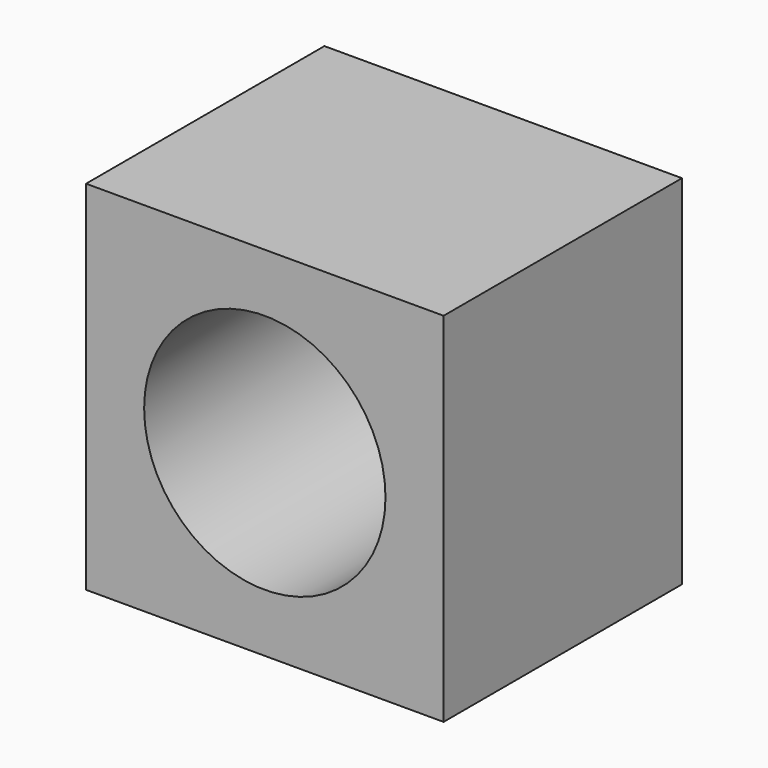
from build123d import *

# Parameters (mm, degrees)
F0_W     = 12
F0_H     = 10
F1_DEPTH = 12
F2_R     = 4.05
F3_DEPTH = 25


with BuildPart() as f1:
    # F0 (on Top) → F1 (new body)
    with BuildSketch(Plane.XY):
        Rectangle(F0_W, F0_H)
    extrude(amount=F1_DEPTH)

    # F2 (on face) → F3 (cut)
    with BuildSketch(Plane.XZ.offset(5)):
        with Locations((0, 6)):
            Circle(F2_R)
    extrude(amount=-F3_DEPTH, mode=Mode.SUBTRACT)


solid = f1.part
